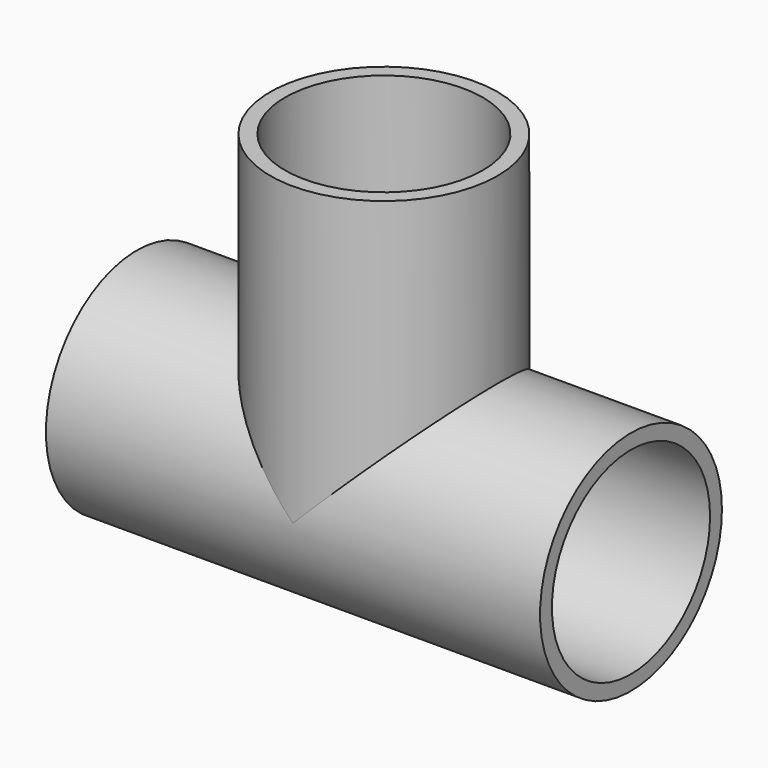
from build123d import *

# Parameters (mm, degrees)
F0_R     = 57.5
F0_R_2   = 50
F1_DEPTH = 125
F2_R     = 57.5
F2_R_2   = 50
F3_DEPTH = 150
F4_R     = 50
F5_DEPTH = 250
F6_R     = 50
F7_DEPTH = 150


with BuildPart() as f1:
    # F0 (on Right) → F1 (new body, symmetric)
    with BuildSketch(Plane.YZ):
        Circle(F0_R)
        Circle(F0_R_2, mode=Mode.SUBTRACT)
    extrude(amount=F1_DEPTH, both=True)

    # F2 (on Top) → F3 (join)
    with BuildSketch(Plane.XY):
        Circle(F2_R)
        Circle(F2_R_2, mode=Mode.SUBTRACT)
    extrude(amount=F3_DEPTH)

    # F4 (on face) → F5 (cut)
    with BuildSketch(Plane(origin=(-125, 0, 0), x_dir=(0, -1, 0), z_dir=(-1, 0, 0))):
        Circle(F4_R)
    extrude(amount=-F5_DEPTH, mode=Mode.SUBTRACT)

    # F6 (on face) → F7 (cut)
    with BuildSketch(Plane.XY.offset(150)):
        Circle(F6_R)
    extrude(amount=-F7_DEPTH, mode=Mode.SUBTRACT)


solid = f1.part
